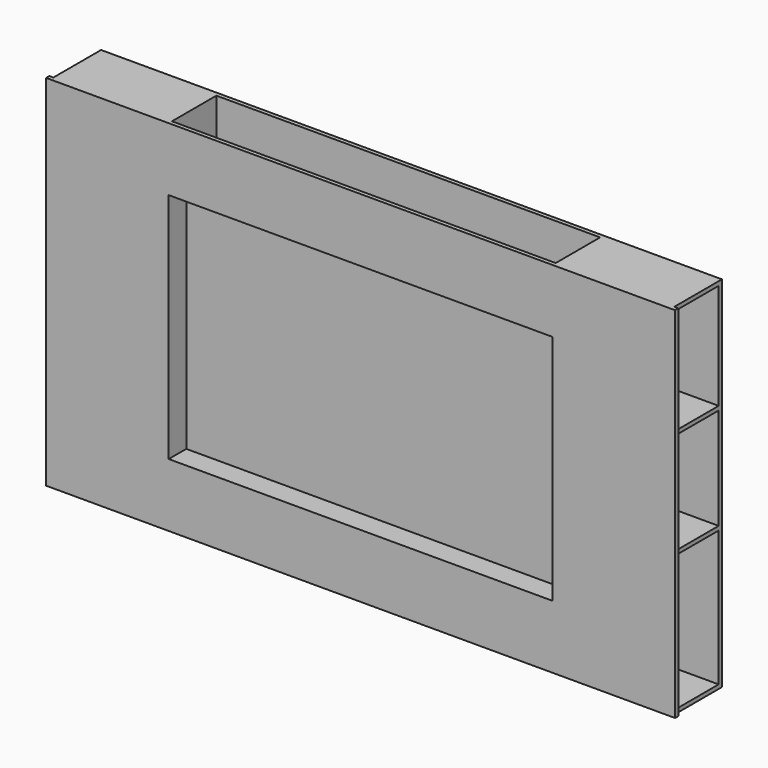
from build123d import *

# Parameters (mm, degrees)
F0_W          = 1800
F0_H          = 1060
F1_DEPTH      = 12
F3_W          = 333.5
F3_H          = 12
F4_DEPTH      = 176
F6_DEPTH      = 176
F8_DEPTH      = 566.5
F8_DEPTH_BACK = 566.5
F9_W          = 1133
F9_H          = 686
F10_DEPTH     = 25
F11_W         = 1133
F11_H         = 12
F12_DEPTH     = 176
F13_W         = 321.5
F13_H         = 1036
F14_DEPTH     = 12
F15_W         = 1133
F15_H         = 12
F16_DEPTH     = 343
F17_DEPTH     = 343
F18_W         = 1133
F18_H         = 12
F19_DEPTH     = 65
F21_W         = 164
F21_H         = 12
F22_DEPTH     = 321.5
F23_W         = 164
F23_H         = 12
F24_DEPTH     = 321.5
F25_W         = 1133
F25_H         = 12
F26_DEPTH     = 175
F27_W         = 12
F27_H         = 1060
F28_DEPTH     = 28.5
F29_W         = 12
F29_H         = 1060
F30_DEPTH     = 28.5
F31_DEPTH     = 16.5
F32_DEPTH     = 16.5


with BuildPart() as f1:
    # F0 (on Front) → F1 (new body)
    with BuildSketch(Plane.XZ):
        Rectangle(F0_W, F0_H)
    extrude(amount=F1_DEPTH)

    # F3 (on offset) → F4 (join, through all)
    with BuildSketch(Plane.XZ.offset(-176)):
        with Locations((-733.25, 524)):
            Rectangle(F3_W, F3_H)
        with Locations((733.25, 524)):
            Rectangle(F3_W, F3_H)
    extrude(amount=F4_DEPTH)

    # F5 (on offset) → F6 (join, through all)
    with BuildSketch(Plane.XZ.offset(-176)):
        Polygon((578.5, -518), (578.5, 518), (566.5, 518), (566.5, -530), (900, -530), (900, -518), align=None)
        Polygon((-900, -518), (-900, -530), (-566.5, -530), (-566.5, 518), (-578.5, 518), (-578.5, -518), align=None)
    extrude(amount=F6_DEPTH)

    # F7 (on Right) → F8 (join, two sides)
    with BuildSketch(Plane.YZ) as f8_sk:
        Polygon((176, 273), (176, 343), (96, 343), (96, 303), (136, 303), (136, 273), align=None)
    extrude(amount=F8_DEPTH)
    extrude(f8_sk.sketch, amount=-F8_DEPTH_BACK)

    # F9 (on face) → F10 (cut)
    with BuildSketch(Plane.XZ.offset(12)):
        Rectangle(F9_W, F9_H)
    extrude(amount=-F10_DEPTH, mode=Mode.SUBTRACT)

    # F11 (on face) → F12 (join, through all)
    with BuildSketch(Plane.XZ):
        with Locations((0, 349)):
            Rectangle(F11_W, F11_H)
    extrude(amount=-F12_DEPTH)

    # F13 (on face) → F14 (join)
    with BuildSketch(Plane(origin=(0, 176, 0), x_dir=(-1, 0, 0), z_dir=(0, 1, 0))):
        with Locations((739.25, 0)):
            Rectangle(F13_W, F13_H)
        with Locations((-739.25, 0)):
            Rectangle(F13_W, F13_H)
    extrude(amount=-F14_DEPTH)

    # F15 (on Top) → F16 (join, through all)
    with BuildSketch(Plane.XY):
        with Locations((0, 59)):
            Rectangle(F15_W, F15_H)
    extrude(amount=F16_DEPTH)

    # F15 (on Top) → F17 (join, through all)
    with BuildSketch(Plane.XY):
        with Locations((0, 59)):
            Rectangle(F15_W, F15_H)
    extrude(amount=-F17_DEPTH)

    # F18 (on face) → F19 (join, through all)
    with BuildSketch(Plane(origin=(0, 0, 0), x_dir=(-1, 0, 0), z_dir=(0, 1, 0))):
        with Locations((0, -349)):
            Rectangle(F18_W, F18_H)
    extrude(amount=F19_DEPTH)

    # F21 (on face) → F22 (join, through all)
    with BuildSketch(Plane(origin=(-578.5, 0, 0), x_dir=(0, -1, 0), z_dir=(-1, 0, 0))):
        with Locations((-82, -112)):
            Rectangle(F21_W, F21_H)
        with Locations((-82, 200)):
            Rectangle(F21_W, F21_H)
    extrude(amount=F22_DEPTH)

    # F23 (on face) → F24 (join, through all)
    with BuildSketch(Plane.YZ.offset(578.5)):
        with Locations((82, -112)):
            Rectangle(F23_W, F23_H)
        with Locations((82, 200)):
            Rectangle(F23_W, F23_H)
    extrude(amount=F24_DEPTH)

    # F25 (on face) → F26 (join, through all)
    with BuildSketch(Plane.XY.offset(355)):
        with Locations((0, 170)):
            Rectangle(F25_W, F25_H)
    extrude(amount=F26_DEPTH)

    # F27 (on face) → F28 (join)
    with BuildSketch(Plane(origin=(-900, 0, 0), x_dir=(0, -1, 0), z_dir=(-1, 0, 0))):
        with Locations((6, 0)):
            Rectangle(F27_W, F27_H)
    extrude(amount=F28_DEPTH)

    # F29 (on face) → F30 (join)
    with BuildSketch(Plane.YZ.offset(900)):
        with Locations((-6, 0)):
            Rectangle(F29_W, F29_H)
    extrude(amount=F30_DEPTH)

    # F31 (add): a face of the model
    f31_faces = [f1.faces().sort_by_distance(p)[0] for p in [
        (900, 88, -519.2548801775),
    ]]
    extrude(f31_faces, amount=F31_DEPTH)

    # F32 (add): a face of the model
    f32_faces = [f1.faces().sort_by_distance(p)[0] for p in [
        (-900, 88, 519.2548801775),
    ]]
    extrude(f32_faces, amount=F32_DEPTH)


solid = f1.part
